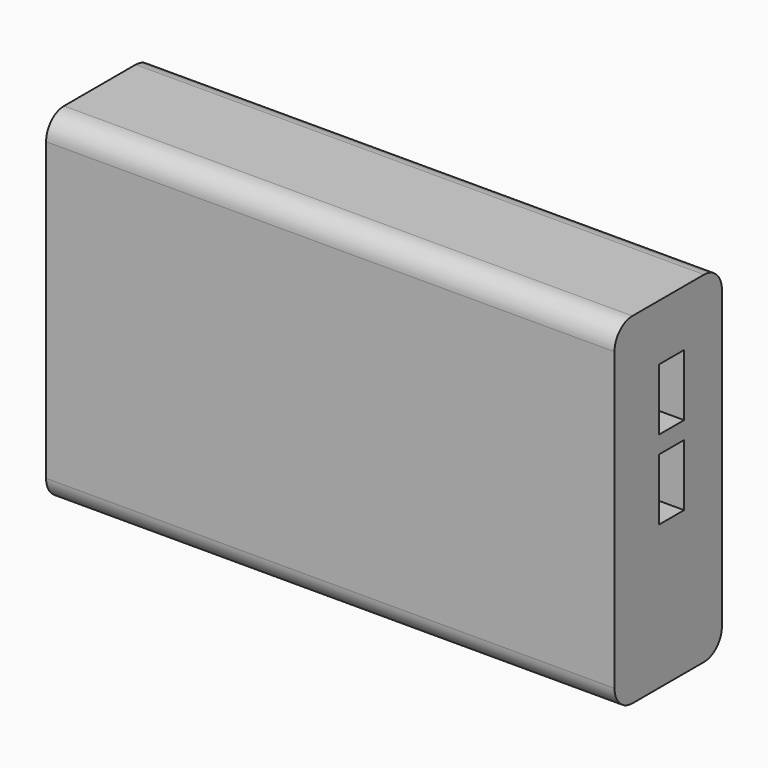
from build123d import *

# Parameters (mm, degrees)
F0_W     = 127
F0_H     = 76.2
F1_DEPTH = 30
F2_R     = 5
F3_W     = 7
F3_H     = 13.8
F4_DEPTH = 16.4
F5_W     = 7
F5_H     = 13.8
F6_DEPTH = 16.4


with BuildPart() as f1:
    # F0 (on Front) → F1 (new body)
    with BuildSketch(Plane.XZ):
        Rectangle(F0_W, F0_H)
    extrude(amount=F1_DEPTH)

    # F2
    f2_edges = [f1.edges().sort_by_distance(p)[0] for p in [
        (0, -30, 38.1),
        (0, 0, 38.1),
        (0, -30, -38.1),
        (0, 0, -38.1),
    ]]
    fillet(f2_edges, radius=F2_R)

    # F3 (on face) → F4 (cut)
    with BuildSketch(Plane.YZ.offset(63.5)):
        with Locations((-14.062501, 18.641072)):
            Rectangle(F3_W, F3_H)
    extrude(amount=-F4_DEPTH, mode=Mode.SUBTRACT)

    # F5 (on face) → F6 (cut)
    with BuildSketch(Plane.YZ.offset(63.5)):
        with Locations((-14.062501, 0.937244)):
            Rectangle(F5_W, F5_H)
    extrude(amount=-F6_DEPTH, mode=Mode.SUBTRACT)


solid = f1.part
